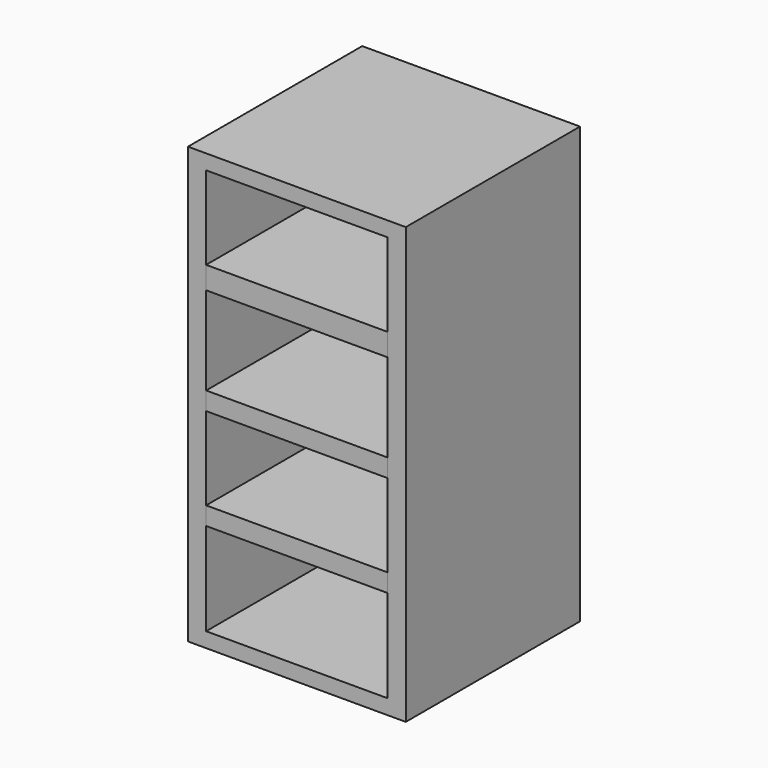
from build123d import *

# Parameters (mm, degrees)
F0_W     = 76.2
F0_H     = 152.4
F1_DEPTH = 76.2
F0_W_2   = 63.5
F0_H_2   = 29.112704
F2_DEPTH = 12.7
F0_H_3   = 6.35
F3_DEPTH = 76.2
F0_H_4   = 32.415725
F4_DEPTH = 12.7
F0_H_5   = 7.835079
F5_DEPTH = 76.2
F0_H_6   = 30.853832
F6_DEPTH = 12.7
F0_H_7   = 29.03589
F7_DEPTH = 12.7


with BuildPart() as f1:
    # F0 (on Front) → F1 (new body)
    with BuildSketch(Plane.XZ):
        Rectangle(F0_W, F0_H)
        Polygon((-31.75, 70.976615), (31.75, 70.976615), (31.75, 41.863911), (31.75, 34.028832), (31.75, 3.175), (31.75, -3.175), (31.75, -32.21089), (31.75, -38.56089), (31.75, -70.976615), (-31.75, -70.976615), (-31.75, -38.56089), (-31.75, -32.21089), (-31.75, -3.175), (-31.75, 3.175), (-31.75, 34.028832), (-31.75, 41.863911), align=None, mode=Mode.SUBTRACT)
    extrude(amount=F1_DEPTH)


with BuildPart() as f2:
    # F0 (on Front) → F2 (new body)
    with BuildSketch(Plane.XZ):
        with Locations((0, 56.420263)):
            Rectangle(F0_W_2, F0_H_2)
    extrude(amount=F2_DEPTH)


with BuildPart() as f3:
    # F0 (on Front) → F3 (new body)
    with BuildSketch(Plane.XZ):
        Rectangle(F0_W_2, F0_H_3)
    extrude(amount=F3_DEPTH)


with BuildPart() as f4:
    # F0 (on Front) → F4 (new body)
    with BuildSketch(Plane.XZ):
        with Locations((0, -54.768752)):
            Rectangle(F0_W_2, F0_H_4)
    extrude(amount=F4_DEPTH)


with BuildPart() as f5:
    # F0 (on Front) → F5 (new body)
    with BuildSketch(Plane.XZ):
        with Locations((0, -35.38589)):
            Rectangle(F0_W_2, F0_H_3)
        with Locations((0, 37.946371)):
            Rectangle(F0_W_2, F0_H_5)
    extrude(amount=F5_DEPTH)


with BuildPart() as f6:
    # F0 (on Front) → F6 (new body)
    with BuildSketch(Plane.XZ):
        with Locations((0, 18.601916)):
            Rectangle(F0_W_2, F0_H_6)
        with Locations((0, -54.768752)):
            Rectangle(F0_W_2, F0_H_4)
    extrude(amount=F6_DEPTH)


with BuildPart() as f7:
    # F0 (on Front) → F7 (new body)
    with BuildSketch(Plane.XZ):
        with Locations((0, -17.692945)):
            Rectangle(F0_W_2, F0_H_7)
    extrude(amount=F7_DEPTH)


solid = Compound([f1.part, f2.part, f3.part, f4.part, f5.part, f6.part, f7.part])
